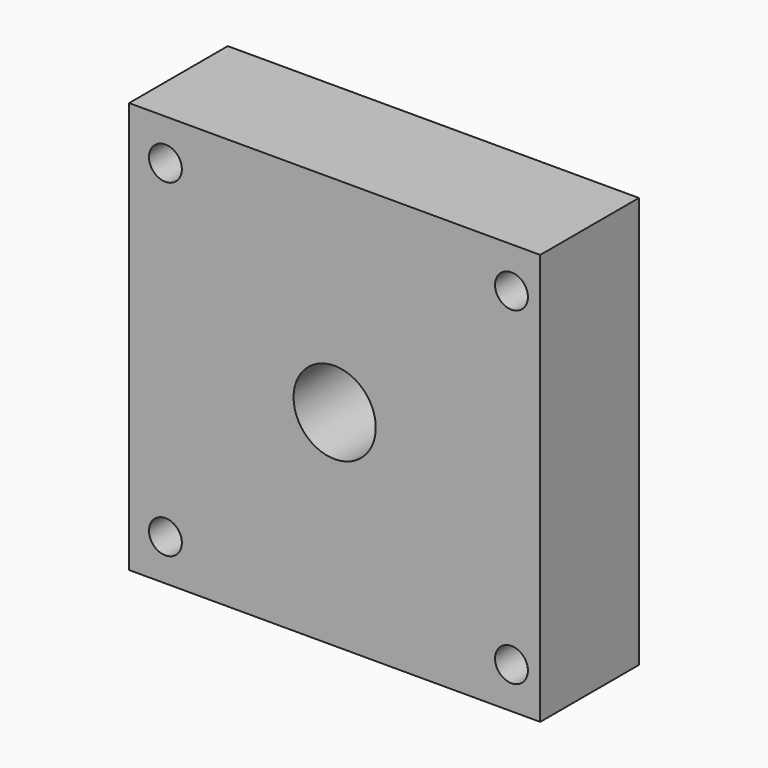
from build123d import *

# Parameters (mm, degrees)
F0_W     = 100
F0_H     = 100
F1_DEPTH = 30
F3_DEPTH = 18
F4_R     = 10
F4_R_2   = 4
F5_DEPTH = 30.001


with BuildPart() as f1:
    # F0 (on Front) → F1 (new body)
    with BuildSketch(Plane.XZ):
        with Locations((0, -50)):
            Rectangle(F0_W, F0_H)
    extrude(amount=F1_DEPTH)

    # F2 (on face) → F3 (join)
    with BuildSketch(Plane(origin=(0, 0, 0), x_dir=(-1, 0, 0), z_dir=(0, 1, 0))):
        with BuildLine():
            ThreePointArc((-35, -70), (-30.606602, -80.606602), (-20, -85))
            Line((-20, -85), (20, -85))
            ThreePointArc((20, -85), (30.606602, -80.606602), (35, -70))
            Line((35, -70), (35, -30))
            ThreePointArc((35, -30), (30.606602, -19.393398), (20, -15))
            Line((20, -15), (-20, -15))
            ThreePointArc((-20, -15), (-30.606602, -19.393398), (-35, -30))
            Line((-35, -30), (-35, -70))
        make_face()
        with BuildLine():
            Line((20, -80), (-20, -80))
            ThreePointArc((-20, -80), (-27.071068, -77.071068), (-30, -70))
            Line((-30, -70), (-30, -30))
            ThreePointArc((-30, -30), (-27.071068, -22.928932), (-20, -20))
            Line((-20, -20), (20, -20))
            ThreePointArc((20, -20), (27.071068, -22.928932), (30, -30))
            Line((30, -30), (30, -70))
            ThreePointArc((30, -70), (27.071068, -77.071068), (20, -80))
        make_face(mode=Mode.SUBTRACT)
    extrude(amount=F3_DEPTH)

    # F4 (on face) → F5 (cut, through all)
    with BuildSketch(Plane(origin=(0, 0, 0), x_dir=(-1, 0, 0), z_dir=(0, 1, 0))):
        with Locations((0, -50)):
            Circle(F4_R)
        with Locations((41.16613, -90)):
            Circle(F4_R_2)
        with Locations((41.16613, -10)):
            Circle(F4_R_2)
        with Locations((-43.004811, -90)):
            Circle(F4_R_2)
        with Locations((-43.004811, -10)):
            Circle(F4_R_2)
    extrude(amount=-F5_DEPTH, mode=Mode.SUBTRACT)


solid = f1.part
